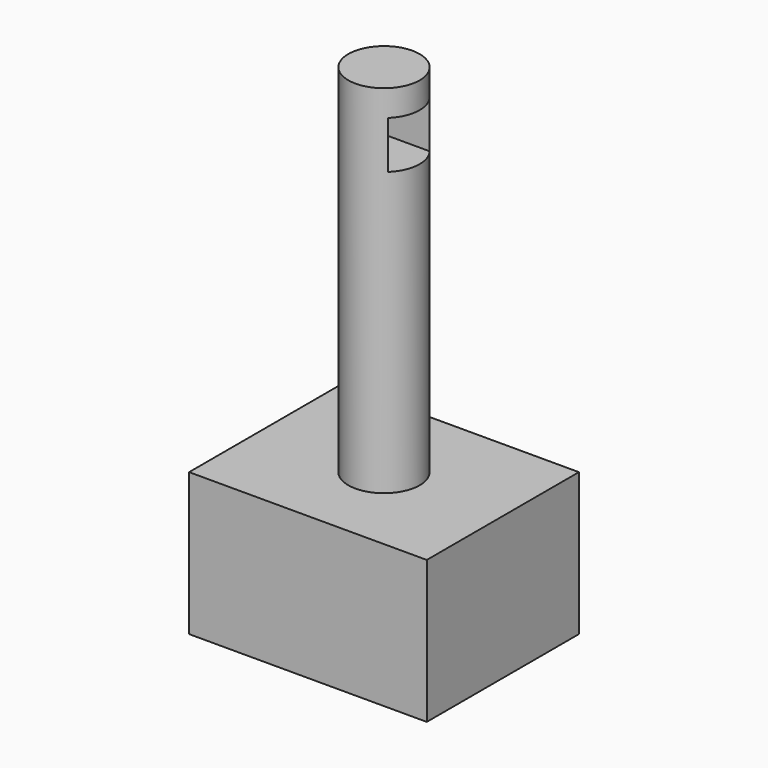
from build123d import *

# Parameters (mm, degrees)
F0_W          = 100
F0_H          = 80
F1_DEPTH      = 60
F2_R          = 15
F3_DEPTH      = 60
F4_R          = 15
F5_DEPTH      = 150
F6_W          = 20
F6_H          = 20
F7_DEPTH      = 25
F7_DEPTH_BACK = 25


with BuildPart() as f1:
    # F0 (on Top) → F1 (new body)
    with BuildSketch(Plane.XY):
        Rectangle(F0_W, F0_H)
    extrude(amount=F1_DEPTH)

    # F2 (on face) → F3 (cut, through all)
    with BuildSketch(Plane.XY.offset(60)):
        Circle(F2_R)
    extrude(amount=-F3_DEPTH, mode=Mode.SUBTRACT)


with BuildPart() as f5:
    # F4 (on face) → F5 (new body)
    with BuildSketch(Plane.XY.offset(60)):
        Circle(F4_R)
    extrude(amount=F5_DEPTH)

    # F6 (on Right) → F7 (cut, two sides)
    with BuildSketch(Plane.YZ) as f7_sk:
        with Locations((-0.8037427813, 188.9602637291)):
            Rectangle(F6_W, F6_H)
    extrude(amount=-F7_DEPTH, mode=Mode.SUBTRACT)
    extrude(f7_sk.sketch, amount=F7_DEPTH_BACK, mode=Mode.SUBTRACT)


solid = Compound([f1.part, f5.part])
